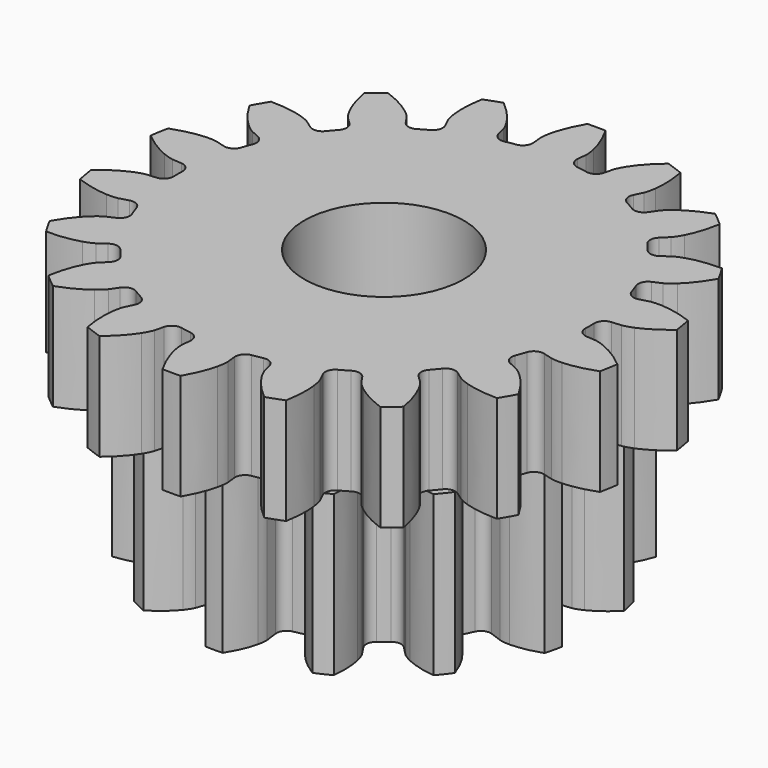
from build123d import *

# Parameters (mm, degrees)
PAD053_DEPTH            = 6
PAD054_DEPTH            = 9
SKETCH102_R             = 4.5
POCKET014_DEPTH         = 15.001
BODY026_PLACEMENT_ANGLE = 90


with BuildPart() as part:
    # Sketch100 → Pad053 (new body)
    with BuildSketch(Plane.XY):
        with BuildLine():
            Line((12.111023, -1.241717), (12.645761, -1.295402))
            add(Edge.make_bspline(
                [(12.645761, -1.295402), (12.714302, -1.298033), (12.920518, -1.29727), (13.264938, -1.221824)],
                knots=[0, 0, 0, 0, 1, 1, 1, 1], degree=3))
            add(Edge.make_bspline(
                [(13.264938, -1.221824), (13.676607, -1.130119), (14.26795, -0.932555), (14.993012, -0.510488)],
                knots=[0, 0, 0, 0, 1, 1, 1, 1], degree=3))
            ThreePointArc((14.993012, -0.510488), (15.001701, 0), (14.993012, 0.510488))
            add(Edge.make_bspline(
                [(14.993012, 0.510488), (14.26795, 0.932555), (13.676607, 1.130119), (13.264938, 1.221824)],
                knots=[0, 0, 0, 0, 1, 1, 1, 1], degree=3))
            add(Edge.make_bspline(
                [(13.264938, 1.221824), (12.920518, 1.29727), (12.714302, 1.298033), (12.645761, 1.295402)],
                knots=[0, 0, 0, 0, 1, 1, 1, 1], degree=3))
            Line((12.645761, 1.295402), (12.111023, 1.241717))
            ThreePointArc((12.111023, 1.241717), (11.708936, 1.356787), (11.497414, 1.717583))
            ThreePointArc((11.497414, 1.717583), (11.44839, 2.01866), (11.391483, 2.318347))
            ThreePointArc((11.391483, 2.318347), (11.46685, 2.729729), (11.805332, 2.975381))
            Line((11.805332, 2.975381), (12.326182, 3.107825))
            add(Edge.make_bspline(
                [(12.326182, 3.107825), (12.391489, 3.128796), (12.585008, 3.200042), (12.882853, 3.388737)],
                knots=[0, 0, 0, 0, 1, 1, 1, 1], degree=3))
            add(Edge.make_bspline(
                [(12.882853, 3.388737), (13.238331, 3.615711), (13.72644, 4.003611), (14.26342, 4.64821)],
                knots=[0, 0, 0, 0, 1, 1, 1, 1], degree=3))
            ThreePointArc((14.26342, 4.64821), (14.096988, 5.130884), (13.914226, 5.607614))
            add(Edge.make_bspline(
                [(13.914226, 5.607614), (13.088535, 5.756242), (12.465284, 5.73964), (12.047076, 5.685015)],
                knots=[0, 0, 0, 0, 1, 1, 1, 1], degree=3))
            add(Edge.make_bspline(
                [(12.047076, 5.685015), (11.697623, 5.638113), (11.503582, 5.568299), (11.440074, 5.542385)],
                knots=[0, 0, 0, 0, 1, 1, 1, 1], degree=3))
            Line((11.440074, 5.542385), (10.955947, 5.309046))
            ThreePointArc((10.955947, 5.309046), (10.538753, 5.279655), (10.216587, 5.546347))
            ThreePointArc((10.216587, 5.546347), (10.067545, 5.8125), (9.911571, 6.074651))
            ThreePointArc((9.911571, 6.074651), (9.841692, 6.487), (10.075743, 6.833605))
            Line((10.075743, 6.833605), (10.519883, 7.136202))
            add(Edge.make_bspline(
                [(10.519883, 7.136202), (10.57408, 7.178245), (10.73156, 7.311383), (10.946905, 7.590566)],
                knots=[0, 0, 0, 0, 1, 1, 1, 1], degree=3))
            add(Edge.make_bspline(
                [(10.946905, 7.590566), (11.203316, 7.925433), (11.529319, 8.456883), (11.813449, 9.246266)],
                knots=[0, 0, 0, 0, 1, 1, 1, 1], degree=3))
            ThreePointArc((11.813449, 9.246266), (11.49197, 9.642908), (11.157178, 10.028379))
            add(Edge.make_bspline(
                [(11.157178, 10.028379), (10.330449, 9.885641), (9.750463, 9.656875), (9.376159, 9.462509)],
                knots=[0, 0, 0, 0, 1, 1, 1, 1], degree=3))
            add(Edge.make_bspline(
                [(9.376159, 9.462509), (9.063822, 9.298916), (8.905361, 9.166947), (8.854546, 9.120874)],
                knots=[0, 0, 0, 0, 1, 1, 1, 1], degree=3))
            Line((8.854546, 9.120874), (8.479422, 8.736026))
            ThreePointArc((8.479422, 8.736026), (8.09744, 8.565718), (7.703489, 8.70614))
            ThreePointArc((7.703489, 8.70614), (7.472406, 8.905267), (7.236177, 9.098261))
            ThreePointArc((7.236177, 9.098261), (7.02948, 9.461843), (7.13087, 9.867595))
            Line((7.13087, 9.867595), (7.444732, 10.303849))
            add(Edge.make_bspline(
                [(7.444732, 10.303849), (7.48128, 10.361892), (7.583728, 10.540862), (7.690599, 10.876861)],
                knots=[0, 0, 0, 0, 1, 1, 1, 1], degree=3))
            add(Edge.make_bspline(
                [(7.690599, 10.876861), (7.817015, 11.27923), (7.941592, 11.89013), (7.938602, 12.729085)],
                knots=[0, 0, 0, 0, 1, 1, 1, 1], degree=3))
            ThreePointArc((7.938602, 12.729085), (7.500851, 12.991854), (7.05441, 13.239573))
            add(Edge.make_bspline(
                [(7.05441, 13.239573), (6.326359, 12.822685), (5.859592, 12.409349), (5.574338, 12.098685)],
                knots=[0, 0, 0, 0, 1, 1, 1, 1], degree=3))
            add(Edge.make_bspline(
                [(5.574338, 12.098685), (5.33679, 11.838132), (5.233022, 11.659925), (5.201029, 11.599251)],
                knots=[0, 0, 0, 0, 1, 1, 1, 1], degree=3))
            Line((5.201029, 11.599251), (4.980153, 11.109313))
            ThreePointArc((4.980153, 11.109313), (4.679456, 10.81863), (4.261237, 10.815844))
            ThreePointArc((4.261237, 10.815844), (3.975984, 10.923927), (3.687994, 11.024488))
            ThreePointArc((3.687994, 11.024488), (3.36941, 11.295448), (3.32591, 11.711408))
            Line((3.32591, 11.711408), (3.471636, 12.228699))
            add(Edge.make_bspline(
                [(3.471636, 12.228699), (3.486128, 12.295742), (3.521186, 12.498958), (3.506694, 12.851246)],
                knots=[0, 0, 0, 0, 1, 1, 1, 1], degree=3))
            add(Edge.make_bspline(
                [(3.506694, 12.851246), (3.487868, 13.272586), (3.395991, 13.889252), (3.106242, 14.676589)],
                knots=[0, 0, 0, 0, 1, 1, 1, 1], degree=3))
            ThreePointArc((3.106242, 14.676589), (2.605018, 14.773792), (2.100777, 14.85388))
            add(Edge.make_bspline(
                [(2.100777, 14.85388), (1.559216, 14.213125), (1.261968, 13.665072), (1.100171, 13.275581)],
                knots=[0, 0, 0, 0, 1, 1, 1, 1], degree=3))
            add(Edge.make_bspline(
                [(1.100171, 13.275581), (0.966063, 12.949495), (0.929503, 12.746544), (0.920191, 12.678587)],
                knots=[0, 0, 0, 0, 1, 1, 1, 1], degree=3))
            Line((0.920191, 12.678587), (0.880204, 12.142652))
            ThreePointArc((0.880204, 12.142652), (0.697061, 11.766655), (0.305016, 11.620998))
            ThreePointArc((0.305016, 11.620998), (0, 11.625), (-0.305016, 11.620998))
            ThreePointArc((-0.305016, 11.620998), (-0.697061, 11.766655), (-0.880204, 12.142652))
            Line((-0.880204, 12.142652), (-0.920191, 12.678587))
            add(Edge.make_bspline(
                [(-0.920191, 12.678587), (-0.929503, 12.746544), (-0.966063, 12.949495), (-1.100171, 13.275581)],
                knots=[0, 0, 0, 0, 1, 1, 1, 1], degree=3))
            add(Edge.make_bspline(
                [(-1.100171, 13.275581), (-1.261968, 13.665072), (-1.559216, 14.213125), (-2.100777, 14.85388)],
                knots=[0, 0, 0, 0, 1, 1, 1, 1], degree=3))
            ThreePointArc((-2.100777, 14.85388), (-2.605018, 14.773792), (-3.106242, 14.676589))
            add(Edge.make_bspline(
                [(-3.106242, 14.676589), (-3.395991, 13.889252), (-3.487868, 13.272586), (-3.506694, 12.851246)],
                knots=[0, 0, 0, 0, 1, 1, 1, 1], degree=3))
            add(Edge.make_bspline(
                [(-3.506694, 12.851246), (-3.521186, 12.498958), (-3.486128, 12.295742), (-3.471636, 12.228699)],
                knots=[0, 0, 0, 0, 1, 1, 1, 1], degree=3))
            Line((-3.471636, 12.228699), (-3.32591, 11.711408))
            ThreePointArc((-3.32591, 11.711408), (-3.36941, 11.295448), (-3.687994, 11.024488))
            ThreePointArc((-3.687994, 11.024488), (-3.975984, 10.923927), (-4.261237, 10.815844))
            ThreePointArc((-4.261237, 10.815844), (-4.679456, 10.81863), (-4.980153, 11.109313))
            Line((-4.980153, 11.109313), (-5.201029, 11.599251))
            add(Edge.make_bspline(
                [(-5.201029, 11.599251), (-5.233022, 11.659925), (-5.33679, 11.838132), (-5.574338, 12.098685)],
                knots=[0, 0, 0, 0, 1, 1, 1, 1], degree=3))
            add(Edge.make_bspline(
                [(-5.574338, 12.098685), (-5.859592, 12.409349), (-6.326359, 12.822685), (-7.05441, 13.239573)],
                knots=[0, 0, 0, 0, 1, 1, 1, 1], degree=3))
            ThreePointArc((-7.05441, 13.239573), (-7.500851, 12.991854), (-7.938602, 12.729085))
            add(Edge.make_bspline(
                [(-7.938602, 12.729085), (-7.941592, 11.89013), (-7.817015, 11.27923), (-7.690599, 10.876861)],
                knots=[0, 0, 0, 0, 1, 1, 1, 1], degree=3))
            add(Edge.make_bspline(
                [(-7.690599, 10.876861), (-7.583728, 10.540862), (-7.48128, 10.361892), (-7.444732, 10.303849)],
                knots=[0, 0, 0, 0, 1, 1, 1, 1], degree=3))
            Line((-7.444732, 10.303849), (-7.13087, 9.867595))
            ThreePointArc((-7.13087, 9.867595), (-7.02948, 9.461843), (-7.236177, 9.098261))
            ThreePointArc((-7.236177, 9.098261), (-7.472406, 8.905267), (-7.703489, 8.70614))
            ThreePointArc((-7.703489, 8.70614), (-8.09744, 8.565718), (-8.479422, 8.736026))
            Line((-8.479422, 8.736026), (-8.854546, 9.120874))
            add(Edge.make_bspline(
                [(-8.854546, 9.120874), (-8.905361, 9.166947), (-9.063822, 9.298916), (-9.376159, 9.462509)],
                knots=[0, 0, 0, 0, 1, 1, 1, 1], degree=3))
            add(Edge.make_bspline(
                [(-9.376159, 9.462509), (-9.750463, 9.656875), (-10.330449, 9.885641), (-11.157178, 10.028379)],
                knots=[0, 0, 0, 0, 1, 1, 1, 1], degree=3))
            ThreePointArc((-11.157178, 10.028379), (-11.49197, 9.642908), (-11.813449, 9.246266))
            add(Edge.make_bspline(
                [(-11.813449, 9.246266), (-11.529319, 8.456883), (-11.203316, 7.925433), (-10.946905, 7.590566)],
                knots=[0, 0, 0, 0, 1, 1, 1, 1], degree=3))
            add(Edge.make_bspline(
                [(-10.946905, 7.590566), (-10.73156, 7.311383), (-10.57408, 7.178245), (-10.519883, 7.136202)],
                knots=[0, 0, 0, 0, 1, 1, 1, 1], degree=3))
            Line((-10.519883, 7.136202), (-10.075743, 6.833605))
            ThreePointArc((-10.075743, 6.833605), (-9.841692, 6.487), (-9.911571, 6.074651))
            ThreePointArc((-9.911571, 6.074651), (-10.067545, 5.8125), (-10.216587, 5.546347))
            ThreePointArc((-10.216587, 5.546347), (-10.538753, 5.279655), (-10.955947, 5.309046))
            Line((-10.955947, 5.309046), (-11.440074, 5.542385))
            add(Edge.make_bspline(
                [(-11.440074, 5.542385), (-11.503582, 5.568299), (-11.697623, 5.638113), (-12.047076, 5.685015)],
                knots=[0, 0, 0, 0, 1, 1, 1, 1], degree=3))
            add(Edge.make_bspline(
                [(-12.047076, 5.685015), (-12.465284, 5.73964), (-13.088535, 5.756242), (-13.914226, 5.607614)],
                knots=[0, 0, 0, 0, 1, 1, 1, 1], degree=3))
            ThreePointArc((-13.914226, 5.607614), (-14.096988, 5.130884), (-14.26342, 4.64821))
            add(Edge.make_bspline(
                [(-14.26342, 4.64821), (-13.72644, 4.003611), (-13.238331, 3.615711), (-12.882853, 3.388737)],
                knots=[0, 0, 0, 0, 1, 1, 1, 1], degree=3))
            add(Edge.make_bspline(
                [(-12.882853, 3.388737), (-12.585008, 3.200042), (-12.391489, 3.128796), (-12.326182, 3.107825)],
                knots=[0, 0, 0, 0, 1, 1, 1, 1], degree=3))
            Line((-12.326182, 3.107825), (-11.805332, 2.975381))
            ThreePointArc((-11.805332, 2.975381), (-11.46685, 2.729729), (-11.391483, 2.318347))
            ThreePointArc((-11.391483, 2.318347), (-11.44839, 2.01866), (-11.497414, 1.717583))
            ThreePointArc((-11.497414, 1.717583), (-11.708936, 1.356787), (-12.111023, 1.241717))
            Line((-12.111023, 1.241717), (-12.645761, 1.295402))
            add(Edge.make_bspline(
                [(-12.645761, 1.295402), (-12.714302, 1.298033), (-12.920518, 1.29727), (-13.264938, 1.221824)],
                knots=[0, 0, 0, 0, 1, 1, 1, 1], degree=3))
            add(Edge.make_bspline(
                [(-13.264938, 1.221824), (-13.676607, 1.130119), (-14.26795, 0.932555), (-14.993012, 0.510488)],
                knots=[0, 0, 0, 0, 1, 1, 1, 1], degree=3))
            ThreePointArc((-14.993012, 0.510488), (-15.001701, 0), (-14.993012, -0.510488))
            add(Edge.make_bspline(
                [(-14.993012, -0.510488), (-14.26795, -0.932555), (-13.676607, -1.130119), (-13.264938, -1.221824)],
                knots=[0, 0, 0, 0, 1, 1, 1, 1], degree=3))
            add(Edge.make_bspline(
                [(-13.264938, -1.221824), (-12.920518, -1.29727), (-12.714302, -1.298033), (-12.645761, -1.295402)],
                knots=[0, 0, 0, 0, 1, 1, 1, 1], degree=3))
            Line((-12.645761, -1.295402), (-12.111023, -1.241717))
            ThreePointArc((-12.111023, -1.241717), (-11.708936, -1.356787), (-11.497414, -1.717583))
            ThreePointArc((-11.497414, -1.717583), (-11.44839, -2.01866), (-11.391483, -2.318347))
            ThreePointArc((-11.391483, -2.318347), (-11.46685, -2.729729), (-11.805332, -2.975381))
            Line((-11.805332, -2.975381), (-12.326182, -3.107825))
            add(Edge.make_bspline(
                [(-12.326182, -3.107825), (-12.391489, -3.128796), (-12.585008, -3.200042), (-12.882853, -3.388737)],
                knots=[0, 0, 0, 0, 1, 1, 1, 1], degree=3))
            add(Edge.make_bspline(
                [(-12.882853, -3.388737), (-13.238331, -3.615711), (-13.72644, -4.003611), (-14.26342, -4.64821)],
                knots=[0, 0, 0, 0, 1, 1, 1, 1], degree=3))
            ThreePointArc((-14.26342, -4.64821), (-14.096988, -5.130884), (-13.914226, -5.607614))
            add(Edge.make_bspline(
                [(-13.914226, -5.607614), (-13.088535, -5.756242), (-12.465284, -5.73964), (-12.047076, -5.685015)],
                knots=[0, 0, 0, 0, 1, 1, 1, 1], degree=3))
            add(Edge.make_bspline(
                [(-12.047076, -5.685015), (-11.697623, -5.638113), (-11.503582, -5.568299), (-11.440074, -5.542385)],
                knots=[0, 0, 0, 0, 1, 1, 1, 1], degree=3))
            Line((-11.440074, -5.542385), (-10.955947, -5.309046))
            ThreePointArc((-10.955947, -5.309046), (-10.538753, -5.279655), (-10.216587, -5.546347))
            ThreePointArc((-10.216587, -5.546347), (-10.067545, -5.8125), (-9.911571, -6.074651))
            ThreePointArc((-9.911571, -6.074651), (-9.841692, -6.487), (-10.075743, -6.833605))
            Line((-10.075743, -6.833605), (-10.519883, -7.136202))
            add(Edge.make_bspline(
                [(-10.519883, -7.136202), (-10.57408, -7.178245), (-10.73156, -7.311383), (-10.946905, -7.590566)],
                knots=[0, 0, 0, 0, 1, 1, 1, 1], degree=3))
            add(Edge.make_bspline(
                [(-10.946905, -7.590566), (-11.203316, -7.925433), (-11.529319, -8.456883), (-11.813449, -9.246266)],
                knots=[0, 0, 0, 0, 1, 1, 1, 1], degree=3))
            ThreePointArc((-11.813449, -9.246266), (-11.49197, -9.642908), (-11.157178, -10.028379))
            add(Edge.make_bspline(
                [(-11.157178, -10.028379), (-10.330449, -9.885641), (-9.750463, -9.656875), (-9.376159, -9.462509)],
                knots=[0, 0, 0, 0, 1, 1, 1, 1], degree=3))
            add(Edge.make_bspline(
                [(-9.376159, -9.462509), (-9.063822, -9.298916), (-8.905361, -9.166947), (-8.854546, -9.120874)],
                knots=[0, 0, 0, 0, 1, 1, 1, 1], degree=3))
            Line((-8.854546, -9.120874), (-8.479422, -8.736026))
            ThreePointArc((-8.479422, -8.736026), (-8.09744, -8.565718), (-7.703489, -8.70614))
            ThreePointArc((-7.703489, -8.70614), (-7.472406, -8.905267), (-7.236177, -9.098261))
            ThreePointArc((-7.236177, -9.098261), (-7.02948, -9.461843), (-7.13087, -9.867595))
            Line((-7.13087, -9.867595), (-7.444732, -10.303849))
            add(Edge.make_bspline(
                [(-7.444732, -10.303849), (-7.48128, -10.361892), (-7.583728, -10.540862), (-7.690599, -10.876861)],
                knots=[0, 0, 0, 0, 1, 1, 1, 1], degree=3))
            add(Edge.make_bspline(
                [(-7.690599, -10.876861), (-7.817015, -11.27923), (-7.941592, -11.89013), (-7.938602, -12.729085)],
                knots=[0, 0, 0, 0, 1, 1, 1, 1], degree=3))
            ThreePointArc((-7.938602, -12.729085), (-7.500851, -12.991854), (-7.05441, -13.239573))
            add(Edge.make_bspline(
                [(-7.05441, -13.239573), (-6.326359, -12.822685), (-5.859592, -12.409349), (-5.574338, -12.098685)],
                knots=[0, 0, 0, 0, 1, 1, 1, 1], degree=3))
            add(Edge.make_bspline(
                [(-5.574338, -12.098685), (-5.33679, -11.838132), (-5.233022, -11.659925), (-5.201029, -11.599251)],
                knots=[0, 0, 0, 0, 1, 1, 1, 1], degree=3))
            Line((-5.201029, -11.599251), (-4.980153, -11.109313))
            ThreePointArc((-4.980153, -11.109313), (-4.679456, -10.81863), (-4.261237, -10.815844))
            ThreePointArc((-4.261237, -10.815844), (-3.975984, -10.923927), (-3.687994, -11.024488))
            ThreePointArc((-3.687994, -11.024488), (-3.36941, -11.295448), (-3.32591, -11.711408))
            Line((-3.32591, -11.711408), (-3.471636, -12.228699))
            add(Edge.make_bspline(
                [(-3.471636, -12.228699), (-3.486128, -12.295742), (-3.521186, -12.498958), (-3.506694, -12.851246)],
                knots=[0, 0, 0, 0, 1, 1, 1, 1], degree=3))
            add(Edge.make_bspline(
                [(-3.506694, -12.851246), (-3.487868, -13.272586), (-3.395991, -13.889252), (-3.106242, -14.676589)],
                knots=[0, 0, 0, 0, 1, 1, 1, 1], degree=3))
            ThreePointArc((-3.106242, -14.676589), (-2.605018, -14.773792), (-2.100777, -14.85388))
            add(Edge.make_bspline(
                [(-2.100777, -14.85388), (-1.559216, -14.213125), (-1.261968, -13.665072), (-1.100171, -13.275581)],
                knots=[0, 0, 0, 0, 1, 1, 1, 1], degree=3))
            add(Edge.make_bspline(
                [(-1.100171, -13.275581), (-0.966063, -12.949495), (-0.929503, -12.746544), (-0.920191, -12.678587)],
                knots=[0, 0, 0, 0, 1, 1, 1, 1], degree=3))
            Line((-0.920191, -12.678587), (-0.880204, -12.142652))
            ThreePointArc((-0.880204, -12.142652), (-0.697061, -11.766655), (-0.305016, -11.620998))
            ThreePointArc((-0.305016, -11.620998), (0, -11.625), (0.305016, -11.620998))
            ThreePointArc((0.305016, -11.620998), (0.697061, -11.766655), (0.880204, -12.142652))
            Line((0.880204, -12.142652), (0.920191, -12.678587))
            add(Edge.make_bspline(
                [(0.920191, -12.678587), (0.929503, -12.746544), (0.966063, -12.949495), (1.100171, -13.275581)],
                knots=[0, 0, 0, 0, 1, 1, 1, 1], degree=3))
            add(Edge.make_bspline(
                [(1.100171, -13.275581), (1.261968, -13.665072), (1.559216, -14.213125), (2.100777, -14.85388)],
                knots=[0, 0, 0, 0, 1, 1, 1, 1], degree=3))
            ThreePointArc((2.100777, -14.85388), (2.605018, -14.773792), (3.106242, -14.676589))
            add(Edge.make_bspline(
                [(3.106242, -14.676589), (3.395991, -13.889252), (3.487868, -13.272586), (3.506694, -12.851246)],
                knots=[0, 0, 0, 0, 1, 1, 1, 1], degree=3))
            add(Edge.make_bspline(
                [(3.506694, -12.851246), (3.521186, -12.498958), (3.486128, -12.295742), (3.471636, -12.228699)],
                knots=[0, 0, 0, 0, 1, 1, 1, 1], degree=3))
            Line((3.471636, -12.228699), (3.32591, -11.711408))
            ThreePointArc((3.32591, -11.711408), (3.36941, -11.295448), (3.687994, -11.024488))
            ThreePointArc((3.687994, -11.024488), (3.975984, -10.923927), (4.261237, -10.815844))
            ThreePointArc((4.261237, -10.815844), (4.679456, -10.81863), (4.980153, -11.109313))
            Line((4.980153, -11.109313), (5.201029, -11.599251))
            add(Edge.make_bspline(
                [(5.201029, -11.599251), (5.233022, -11.659925), (5.33679, -11.838132), (5.574338, -12.098685)],
                knots=[0, 0, 0, 0, 1, 1, 1, 1], degree=3))
            add(Edge.make_bspline(
                [(5.574338, -12.098685), (5.859592, -12.409349), (6.326359, -12.822685), (7.05441, -13.239573)],
                knots=[0, 0, 0, 0, 1, 1, 1, 1], degree=3))
            ThreePointArc((7.05441, -13.239573), (7.500851, -12.991854), (7.938602, -12.729085))
            add(Edge.make_bspline(
                [(7.938602, -12.729085), (7.941592, -11.89013), (7.817015, -11.27923), (7.690599, -10.876861)],
                knots=[0, 0, 0, 0, 1, 1, 1, 1], degree=3))
            add(Edge.make_bspline(
                [(7.690599, -10.876861), (7.583728, -10.540862), (7.48128, -10.361892), (7.444732, -10.303849)],
                knots=[0, 0, 0, 0, 1, 1, 1, 1], degree=3))
            Line((7.444732, -10.303849), (7.13087, -9.867595))
            ThreePointArc((7.13087, -9.867595), (7.02948, -9.461843), (7.236177, -9.098261))
            ThreePointArc((7.236177, -9.098261), (7.472406, -8.905267), (7.703489, -8.70614))
            ThreePointArc((7.703489, -8.70614), (8.09744, -8.565718), (8.479422, -8.736026))
            Line((8.479422, -8.736026), (8.854546, -9.120874))
            add(Edge.make_bspline(
                [(8.854546, -9.120874), (8.905361, -9.166947), (9.063822, -9.298916), (9.376159, -9.462509)],
                knots=[0, 0, 0, 0, 1, 1, 1, 1], degree=3))
            add(Edge.make_bspline(
                [(9.376159, -9.462509), (9.750463, -9.656875), (10.330449, -9.885641), (11.157178, -10.028379)],
                knots=[0, 0, 0, 0, 1, 1, 1, 1], degree=3))
            ThreePointArc((11.157178, -10.028379), (11.49197, -9.642908), (11.813449, -9.246266))
            add(Edge.make_bspline(
                [(11.813449, -9.246266), (11.529319, -8.456883), (11.203316, -7.925433), (10.946905, -7.590566)],
                knots=[0, 0, 0, 0, 1, 1, 1, 1], degree=3))
            add(Edge.make_bspline(
                [(10.946905, -7.590566), (10.73156, -7.311383), (10.57408, -7.178245), (10.519883, -7.136202)],
                knots=[0, 0, 0, 0, 1, 1, 1, 1], degree=3))
            Line((10.519883, -7.136202), (10.075743, -6.833605))
            ThreePointArc((10.075743, -6.833605), (9.841692, -6.487), (9.911571, -6.074651))
            ThreePointArc((9.911571, -6.074651), (10.067545, -5.8125), (10.216587, -5.546347))
            ThreePointArc((10.216587, -5.546347), (10.538753, -5.279655), (10.955947, -5.309046))
            Line((10.955947, -5.309046), (11.440074, -5.542385))
            add(Edge.make_bspline(
                [(11.440074, -5.542385), (11.503582, -5.568299), (11.697623, -5.638113), (12.047076, -5.685015)],
                knots=[0, 0, 0, 0, 1, 1, 1, 1], degree=3))
            add(Edge.make_bspline(
                [(12.047076, -5.685015), (12.465284, -5.73964), (13.088535, -5.756242), (13.914226, -5.607614)],
                knots=[0, 0, 0, 0, 1, 1, 1, 1], degree=3))
            ThreePointArc((13.914226, -5.607614), (14.096988, -5.130884), (14.26342, -4.64821))
            add(Edge.make_bspline(
                [(14.26342, -4.64821), (13.72644, -4.003611), (13.238331, -3.615711), (12.882853, -3.388737)],
                knots=[0, 0, 0, 0, 1, 1, 1, 1], degree=3))
            add(Edge.make_bspline(
                [(12.882853, -3.388737), (12.585008, -3.200042), (12.391489, -3.128796), (12.326182, -3.107825)],
                knots=[0, 0, 0, 0, 1, 1, 1, 1], degree=3))
            Line((12.326182, -3.107825), (11.805332, -2.975381))
            ThreePointArc((11.805332, -2.975381), (11.46685, -2.729729), (11.391483, -2.318347))
            ThreePointArc((11.391483, -2.318347), (11.44839, -2.01866), (11.497414, -1.717583))
            ThreePointArc((11.497414, -1.717583), (11.708936, -1.356787), (12.111023, -1.241717))
        make_face()
    extrude(amount=PAD053_DEPTH)

    # Sketch101 → Pad054 (join)
    with BuildSketch(Plane.XY):
        with BuildLine():
            Line((9.096289, -1.162443), (9.811706, -1.252678))
            add(Edge.make_bspline(
                [(9.811706, -1.252678), (9.87581, -1.256332), (10.068436, -1.258424), (10.391274, -1.185875)],
                knots=[0, 0, 0, 0, 1, 1, 1, 1], degree=3))
            add(Edge.make_bspline(
                [(10.391274, -1.185875), (10.776249, -1.097479), (11.326447, -0.903676), (11.992147, -0.48357)],
                knots=[0, 0, 0, 0, 1, 1, 1, 1], degree=3))
            ThreePointArc((11.992147, -0.48357), (12.001894, 0), (11.992147, 0.48357))
            add(Edge.make_bspline(
                [(11.992147, 0.48357), (11.326447, 0.903676), (10.776249, 1.097479), (10.391274, 1.185875)],
                knots=[0, 0, 0, 0, 1, 1, 1, 1], degree=3))
            add(Edge.make_bspline(
                [(10.391274, 1.185875), (10.068436, 1.258424), (9.87581, 1.256332), (9.811706, 1.252678)],
                knots=[0, 0, 0, 0, 1, 1, 1, 1], degree=3))
            Line((9.811706, 1.252678), (9.096289, 1.162443))
            ThreePointArc((9.096289, 1.162443), (8.695055, 1.264826), (8.47262, 1.614103))
            ThreePointArc((8.47262, 1.614103), (8.408753, 1.919243), (8.3339, 2.221876))
            ThreePointArc((8.3339, 2.221876), (8.382761, 2.633074), (8.699838, 2.899407))
            Line((8.699838, 2.899407), (9.383559, 3.128515))
            add(Edge.make_bspline(
                [(9.383559, 3.128515), (9.442899, 3.153037), (9.617357, 3.23473), (9.876747, 3.440168)],
                knots=[0, 0, 0, 0, 1, 1, 1, 1], degree=3))
            add(Edge.make_bspline(
                [(9.876747, 3.440168), (10.185243, 3.686845), (10.596867, 4.100177), (11.014364, 4.767516)],
                knots=[0, 0, 0, 0, 1, 1, 1, 1], degree=3))
            ThreePointArc((11.014364, 4.767516), (10.813333, 5.207427), (10.594738, 5.638879))
            add(Edge.make_bspline(
                [(10.594738, 5.638879), (9.812686, 5.728546), (9.232886, 5.664434), (8.847683, 5.577042)],
                knots=[0, 0, 0, 0, 1, 1, 1, 1], degree=3))
            add(Edge.make_bspline(
                [(8.847683, 5.577042), (8.525338, 5.502331), (8.352695, 5.416869), (8.296525, 5.385764)],
                knots=[0, 0, 0, 0, 1, 1, 1, 1], degree=3))
            Line((8.296525, 5.385764), (7.691108, 4.994057))
            ThreePointArc((7.691108, 4.994057), (7.285186, 4.912211), (6.933234, 5.130389))
            ThreePointArc((6.933234, 5.130389), (6.743297, 5.3776), (6.544549, 5.617785))
            ThreePointArc((6.544549, 5.617785), (6.410158, 6.009462), (6.580278, 6.386994))
            Line((6.580278, 6.386994), (7.096882, 6.890069))
            add(Edge.make_bspline(
                [(7.096882, 6.890069), (7.139707, 6.937909), (7.261442, 7.087206), (7.406008, 7.384844)],
                knots=[0, 0, 0, 0, 1, 1, 1, 1], degree=3))
            add(Edge.make_bspline(
                [(7.406008, 7.384844), (7.576925, 7.740943), (7.768447, 8.29194), (7.855052, 9.074337)],
                knots=[0, 0, 0, 0, 1, 1, 1, 1], degree=3))
            ThreePointArc((7.855052, 9.074337), (7.483058, 9.383459), (7.098911, 9.677339))
            add(Edge.make_bspline(
                [(7.098911, 9.677339), (6.355402, 9.418806), (5.860837, 9.109478), (5.551699, 8.863607)],
                knots=[0, 0, 0, 0, 1, 1, 1, 1], degree=3))
            add(Edge.make_bspline(
                [(5.551699, 8.863607), (5.293692, 8.656435), (5.175227, 8.504529), (5.138115, 8.452133)],
                knots=[0, 0, 0, 0, 1, 1, 1, 1], degree=3))
            Line((5.138115, 8.452133), (4.762609, 7.836536))
            ThreePointArc((4.762609, 7.836536), (4.432397, 7.586673), (4.020636, 7.630538))
            ThreePointArc((4.020636, 7.630538), (3.742247, 7.770856), (3.458969, 7.901023))
            ThreePointArc((3.458969, 7.901023), (3.167945, 8.195601), (3.157412, 8.609558))
            Line((3.157412, 8.609558), (3.404581, 9.286959))
            add(Edge.make_bspline(
                [(3.404581, 9.286959), (3.422408, 9.348642), (3.46731, 9.535974), (3.468419, 9.866861)],
                knots=[0, 0, 0, 0, 1, 1, 1, 1], degree=3))
            add(Edge.make_bspline(
                [(3.468419, 9.866861), (3.467904, 10.261854), (3.401391, 10.841383), (3.13995, 11.583874)],
                knots=[0, 0, 0, 0, 1, 1, 1, 1], degree=3))
            ThreePointArc((3.13995, 11.583874), (2.670673, 11.700981), (2.197058, 11.799083))
            add(Edge.make_bspline(
                [(2.197058, 11.799083), (1.639352, 11.243557), (1.327978, 10.750278), (1.156133, 10.394626)],
                knots=[0, 0, 0, 0, 1, 1, 1, 1], degree=3))
            add(Edge.make_bspline(
                [(1.156133, 10.394626), (1.013565, 10.096025), (0.972741, 9.907763), (0.962039, 9.844453)],
                knots=[0, 0, 0, 0, 1, 1, 1, 1], degree=3))
            Line((0.962039, 9.844453), (0.890817, 9.126894))
            ThreePointArc((0.890817, 9.126894), (0.701718, 8.758502), (0.311702, 8.619366))
            ThreePointArc((0.311702, 8.619366), (0, 8.625), (-0.311702, 8.619366))
            ThreePointArc((-0.311702, 8.619366), (-0.701718, 8.758502), (-0.890817, 9.126894))
            Line((-0.890817, 9.126894), (-0.962039, 9.844453))
            add(Edge.make_bspline(
                [(-0.962039, 9.844453), (-0.972741, 9.907763), (-1.013565, 10.096025), (-1.156133, 10.394626)],
                knots=[0, 0, 0, 0, 1, 1, 1, 1], degree=3))
            add(Edge.make_bspline(
                [(-1.156133, 10.394626), (-1.327978, 10.750278), (-1.639352, 11.243557), (-2.197058, 11.799083)],
                knots=[0, 0, 0, 0, 1, 1, 1, 1], degree=3))
            ThreePointArc((-2.197058, 11.799083), (-2.670673, 11.700981), (-3.13995, 11.583874))
            add(Edge.make_bspline(
                [(-3.13995, 11.583874), (-3.401391, 10.841383), (-3.467904, 10.261854), (-3.468419, 9.866861)],
                knots=[0, 0, 0, 0, 1, 1, 1, 1], degree=3))
            add(Edge.make_bspline(
                [(-3.468419, 9.866861), (-3.46731, 9.535974), (-3.422408, 9.348642), (-3.404581, 9.286959)],
                knots=[0, 0, 0, 0, 1, 1, 1, 1], degree=3))
            Line((-3.404581, 9.286959), (-3.157412, 8.609558))
            ThreePointArc((-3.157412, 8.609558), (-3.167945, 8.195601), (-3.458969, 7.901023))
            ThreePointArc((-3.458969, 7.901023), (-3.742247, 7.770856), (-4.020636, 7.630538))
            ThreePointArc((-4.020636, 7.630538), (-4.432397, 7.586673), (-4.762609, 7.836536))
            Line((-4.762609, 7.836536), (-5.138115, 8.452133))
            add(Edge.make_bspline(
                [(-5.138115, 8.452133), (-5.175227, 8.504529), (-5.293692, 8.656435), (-5.551699, 8.863607)],
                knots=[0, 0, 0, 0, 1, 1, 1, 1], degree=3))
            add(Edge.make_bspline(
                [(-5.551699, 8.863607), (-5.860837, 9.109478), (-6.355402, 9.418806), (-7.098911, 9.677339)],
                knots=[0, 0, 0, 0, 1, 1, 1, 1], degree=3))
            ThreePointArc((-7.098911, 9.677339), (-7.483058, 9.383459), (-7.855052, 9.074337))
            add(Edge.make_bspline(
                [(-7.855052, 9.074337), (-7.768447, 8.29194), (-7.576925, 7.740943), (-7.406008, 7.384844)],
                knots=[0, 0, 0, 0, 1, 1, 1, 1], degree=3))
            add(Edge.make_bspline(
                [(-7.406008, 7.384844), (-7.261442, 7.087206), (-7.139707, 6.937909), (-7.096882, 6.890069)],
                knots=[0, 0, 0, 0, 1, 1, 1, 1], degree=3))
            Line((-7.096882, 6.890069), (-6.580278, 6.386994))
            ThreePointArc((-6.580278, 6.386994), (-6.410158, 6.009462), (-6.544549, 5.617785))
            ThreePointArc((-6.544549, 5.617785), (-6.743297, 5.3776), (-6.933234, 5.130389))
            ThreePointArc((-6.933234, 5.130389), (-7.285186, 4.912211), (-7.691108, 4.994057))
            Line((-7.691108, 4.994057), (-8.296525, 5.385764))
            add(Edge.make_bspline(
                [(-8.296525, 5.385764), (-8.352695, 5.416869), (-8.525338, 5.502331), (-8.847683, 5.577042)],
                knots=[0, 0, 0, 0, 1, 1, 1, 1], degree=3))
            add(Edge.make_bspline(
                [(-8.847683, 5.577042), (-9.232886, 5.664434), (-9.812686, 5.728546), (-10.594738, 5.638879)],
                knots=[0, 0, 0, 0, 1, 1, 1, 1], degree=3))
            ThreePointArc((-10.594738, 5.638879), (-10.813333, 5.207427), (-11.014364, 4.767516))
            add(Edge.make_bspline(
                [(-11.014364, 4.767516), (-10.596867, 4.100177), (-10.185243, 3.686845), (-9.876747, 3.440168)],
                knots=[0, 0, 0, 0, 1, 1, 1, 1], degree=3))
            add(Edge.make_bspline(
                [(-9.876747, 3.440168), (-9.617357, 3.23473), (-9.442899, 3.153037), (-9.383559, 3.128515)],
                knots=[0, 0, 0, 0, 1, 1, 1, 1], degree=3))
            Line((-9.383559, 3.128515), (-8.699838, 2.899407))
            ThreePointArc((-8.699838, 2.899407), (-8.382761, 2.633074), (-8.3339, 2.221876))
            ThreePointArc((-8.3339, 2.221876), (-8.408753, 1.919243), (-8.47262, 1.614103))
            ThreePointArc((-8.47262, 1.614103), (-8.695055, 1.264826), (-9.096289, 1.162443))
            Line((-9.096289, 1.162443), (-9.811706, 1.252678))
            add(Edge.make_bspline(
                [(-9.811706, 1.252678), (-9.87581, 1.256332), (-10.068436, 1.258424), (-10.391274, 1.185875)],
                knots=[0, 0, 0, 0, 1, 1, 1, 1], degree=3))
            add(Edge.make_bspline(
                [(-10.391274, 1.185875), (-10.776249, 1.097479), (-11.326447, 0.903676), (-11.992147, 0.48357)],
                knots=[0, 0, 0, 0, 1, 1, 1, 1], degree=3))
            ThreePointArc((-11.992147, 0.48357), (-12.001894, 0), (-11.992147, -0.48357))
            add(Edge.make_bspline(
                [(-11.992147, -0.48357), (-11.326447, -0.903676), (-10.776249, -1.097479), (-10.391274, -1.185875)],
                knots=[0, 0, 0, 0, 1, 1, 1, 1], degree=3))
            add(Edge.make_bspline(
                [(-10.391274, -1.185875), (-10.068436, -1.258424), (-9.87581, -1.256332), (-9.811706, -1.252678)],
                knots=[0, 0, 0, 0, 1, 1, 1, 1], degree=3))
            Line((-9.811706, -1.252678), (-9.096289, -1.162443))
            ThreePointArc((-9.096289, -1.162443), (-8.695055, -1.264826), (-8.47262, -1.614103))
            ThreePointArc((-8.47262, -1.614103), (-8.408753, -1.919243), (-8.3339, -2.221876))
            ThreePointArc((-8.3339, -2.221876), (-8.382761, -2.633074), (-8.699838, -2.899407))
            Line((-8.699838, -2.899407), (-9.383559, -3.128515))
            add(Edge.make_bspline(
                [(-9.383559, -3.128515), (-9.442899, -3.153037), (-9.617357, -3.23473), (-9.876747, -3.440168)],
                knots=[0, 0, 0, 0, 1, 1, 1, 1], degree=3))
            add(Edge.make_bspline(
                [(-9.876747, -3.440168), (-10.185243, -3.686845), (-10.596867, -4.100177), (-11.014364, -4.767516)],
                knots=[0, 0, 0, 0, 1, 1, 1, 1], degree=3))
            ThreePointArc((-11.014364, -4.767516), (-10.813333, -5.207427), (-10.594738, -5.638879))
            add(Edge.make_bspline(
                [(-10.594738, -5.638879), (-9.812686, -5.728546), (-9.232886, -5.664434), (-8.847683, -5.577042)],
                knots=[0, 0, 0, 0, 1, 1, 1, 1], degree=3))
            add(Edge.make_bspline(
                [(-8.847683, -5.577042), (-8.525338, -5.502331), (-8.352695, -5.416869), (-8.296525, -5.385764)],
                knots=[0, 0, 0, 0, 1, 1, 1, 1], degree=3))
            Line((-8.296525, -5.385764), (-7.691108, -4.994057))
            ThreePointArc((-7.691108, -4.994057), (-7.285186, -4.912211), (-6.933234, -5.130389))
            ThreePointArc((-6.933234, -5.130389), (-6.743297, -5.3776), (-6.544549, -5.617785))
            ThreePointArc((-6.544549, -5.617785), (-6.410158, -6.009462), (-6.580278, -6.386994))
            Line((-6.580278, -6.386994), (-7.096882, -6.890069))
            add(Edge.make_bspline(
                [(-7.096882, -6.890069), (-7.139707, -6.937909), (-7.261442, -7.087206), (-7.406008, -7.384844)],
                knots=[0, 0, 0, 0, 1, 1, 1, 1], degree=3))
            add(Edge.make_bspline(
                [(-7.406008, -7.384844), (-7.576925, -7.740943), (-7.768447, -8.29194), (-7.855052, -9.074337)],
                knots=[0, 0, 0, 0, 1, 1, 1, 1], degree=3))
            ThreePointArc((-7.855052, -9.074337), (-7.483058, -9.383459), (-7.098911, -9.677339))
            add(Edge.make_bspline(
                [(-7.098911, -9.677339), (-6.355402, -9.418806), (-5.860837, -9.109478), (-5.551699, -8.863607)],
                knots=[0, 0, 0, 0, 1, 1, 1, 1], degree=3))
            add(Edge.make_bspline(
                [(-5.551699, -8.863607), (-5.293692, -8.656435), (-5.175227, -8.504529), (-5.138115, -8.452133)],
                knots=[0, 0, 0, 0, 1, 1, 1, 1], degree=3))
            Line((-5.138115, -8.452133), (-4.762609, -7.836536))
            ThreePointArc((-4.762609, -7.836536), (-4.432397, -7.586673), (-4.020636, -7.630538))
            ThreePointArc((-4.020636, -7.630538), (-3.742247, -7.770856), (-3.458969, -7.901023))
            ThreePointArc((-3.458969, -7.901023), (-3.167945, -8.195601), (-3.157412, -8.609558))
            Line((-3.157412, -8.609558), (-3.404581, -9.286959))
            add(Edge.make_bspline(
                [(-3.404581, -9.286959), (-3.422408, -9.348642), (-3.46731, -9.535974), (-3.468419, -9.866861)],
                knots=[0, 0, 0, 0, 1, 1, 1, 1], degree=3))
            add(Edge.make_bspline(
                [(-3.468419, -9.866861), (-3.467904, -10.261854), (-3.401391, -10.841383), (-3.13995, -11.583874)],
                knots=[0, 0, 0, 0, 1, 1, 1, 1], degree=3))
            ThreePointArc((-3.13995, -11.583874), (-2.670673, -11.700981), (-2.197058, -11.799083))
            add(Edge.make_bspline(
                [(-2.197058, -11.799083), (-1.639352, -11.243557), (-1.327978, -10.750278), (-1.156133, -10.394626)],
                knots=[0, 0, 0, 0, 1, 1, 1, 1], degree=3))
            add(Edge.make_bspline(
                [(-1.156133, -10.394626), (-1.013565, -10.096025), (-0.972741, -9.907763), (-0.962039, -9.844453)],
                knots=[0, 0, 0, 0, 1, 1, 1, 1], degree=3))
            Line((-0.962039, -9.844453), (-0.890817, -9.126894))
            ThreePointArc((-0.890817, -9.126894), (-0.701718, -8.758502), (-0.311702, -8.619366))
            ThreePointArc((-0.311702, -8.619366), (0, -8.625), (0.311702, -8.619366))
            ThreePointArc((0.311702, -8.619366), (0.701718, -8.758502), (0.890817, -9.126894))
            Line((0.890817, -9.126894), (0.962039, -9.844453))
            add(Edge.make_bspline(
                [(0.962039, -9.844453), (0.972741, -9.907763), (1.013565, -10.096025), (1.156133, -10.394626)],
                knots=[0, 0, 0, 0, 1, 1, 1, 1], degree=3))
            add(Edge.make_bspline(
                [(1.156133, -10.394626), (1.327978, -10.750278), (1.639352, -11.243557), (2.197058, -11.799083)],
                knots=[0, 0, 0, 0, 1, 1, 1, 1], degree=3))
            ThreePointArc((2.197058, -11.799083), (2.670673, -11.700981), (3.13995, -11.583874))
            add(Edge.make_bspline(
                [(3.13995, -11.583874), (3.401391, -10.841383), (3.467904, -10.261854), (3.468419, -9.866861)],
                knots=[0, 0, 0, 0, 1, 1, 1, 1], degree=3))
            add(Edge.make_bspline(
                [(3.468419, -9.866861), (3.46731, -9.535974), (3.422408, -9.348642), (3.404581, -9.286959)],
                knots=[0, 0, 0, 0, 1, 1, 1, 1], degree=3))
            Line((3.404581, -9.286959), (3.157412, -8.609558))
            ThreePointArc((3.157412, -8.609558), (3.167945, -8.195601), (3.458969, -7.901023))
            ThreePointArc((3.458969, -7.901023), (3.742247, -7.770856), (4.020636, -7.630538))
            ThreePointArc((4.020636, -7.630538), (4.432397, -7.586673), (4.762609, -7.836536))
            Line((4.762609, -7.836536), (5.138115, -8.452133))
            add(Edge.make_bspline(
                [(5.138115, -8.452133), (5.175227, -8.504529), (5.293692, -8.656435), (5.551699, -8.863607)],
                knots=[0, 0, 0, 0, 1, 1, 1, 1], degree=3))
            add(Edge.make_bspline(
                [(5.551699, -8.863607), (5.860837, -9.109478), (6.355402, -9.418806), (7.098911, -9.677339)],
                knots=[0, 0, 0, 0, 1, 1, 1, 1], degree=3))
            ThreePointArc((7.098911, -9.677339), (7.483058, -9.383459), (7.855052, -9.074337))
            add(Edge.make_bspline(
                [(7.855052, -9.074337), (7.768447, -8.29194), (7.576925, -7.740943), (7.406008, -7.384844)],
                knots=[0, 0, 0, 0, 1, 1, 1, 1], degree=3))
            add(Edge.make_bspline(
                [(7.406008, -7.384844), (7.261442, -7.087206), (7.139707, -6.937909), (7.096882, -6.890069)],
                knots=[0, 0, 0, 0, 1, 1, 1, 1], degree=3))
            Line((7.096882, -6.890069), (6.580278, -6.386994))
            ThreePointArc((6.580278, -6.386994), (6.410158, -6.009462), (6.544549, -5.617785))
            ThreePointArc((6.544549, -5.617785), (6.743297, -5.3776), (6.933234, -5.130389))
            ThreePointArc((6.933234, -5.130389), (7.285186, -4.912211), (7.691108, -4.994057))
            Line((7.691108, -4.994057), (8.296525, -5.385764))
            add(Edge.make_bspline(
                [(8.296525, -5.385764), (8.352695, -5.416869), (8.525338, -5.502331), (8.847683, -5.577042)],
                knots=[0, 0, 0, 0, 1, 1, 1, 1], degree=3))
            add(Edge.make_bspline(
                [(8.847683, -5.577042), (9.232886, -5.664434), (9.812686, -5.728546), (10.594738, -5.638879)],
                knots=[0, 0, 0, 0, 1, 1, 1, 1], degree=3))
            ThreePointArc((10.594738, -5.638879), (10.813333, -5.207427), (11.014364, -4.767516))
            add(Edge.make_bspline(
                [(11.014364, -4.767516), (10.596867, -4.100177), (10.185243, -3.686845), (9.876747, -3.440168)],
                knots=[0, 0, 0, 0, 1, 1, 1, 1], degree=3))
            add(Edge.make_bspline(
                [(9.876747, -3.440168), (9.617357, -3.23473), (9.442899, -3.153037), (9.383559, -3.128515)],
                knots=[0, 0, 0, 0, 1, 1, 1, 1], degree=3))
            Line((9.383559, -3.128515), (8.699838, -2.899407))
            ThreePointArc((8.699838, -2.899407), (8.382761, -2.633074), (8.3339, -2.221876))
            ThreePointArc((8.3339, -2.221876), (8.408753, -1.919243), (8.47262, -1.614103))
            ThreePointArc((8.47262, -1.614103), (8.695055, -1.264826), (9.096289, -1.162443))
        make_face()
    extrude(amount=-PAD054_DEPTH)

    # Sketch102 (on Face5 of Pad054) → Pocket014 (cut, through all)
    with BuildSketch(Plane.XY.offset(6)):
        Circle(SKETCH102_R)
    extrude(amount=-POCKET014_DEPTH, mode=Mode.SUBTRACT)


with BuildPart() as part_1:
    # Body026 placement: moved
    add(part.part.moved(Location((46.5, 0, 25))).rotate(Axis((46.5, 0, 25), (0, 0, 1)), BODY026_PLACEMENT_ANGLE))


solid = part_1.part
